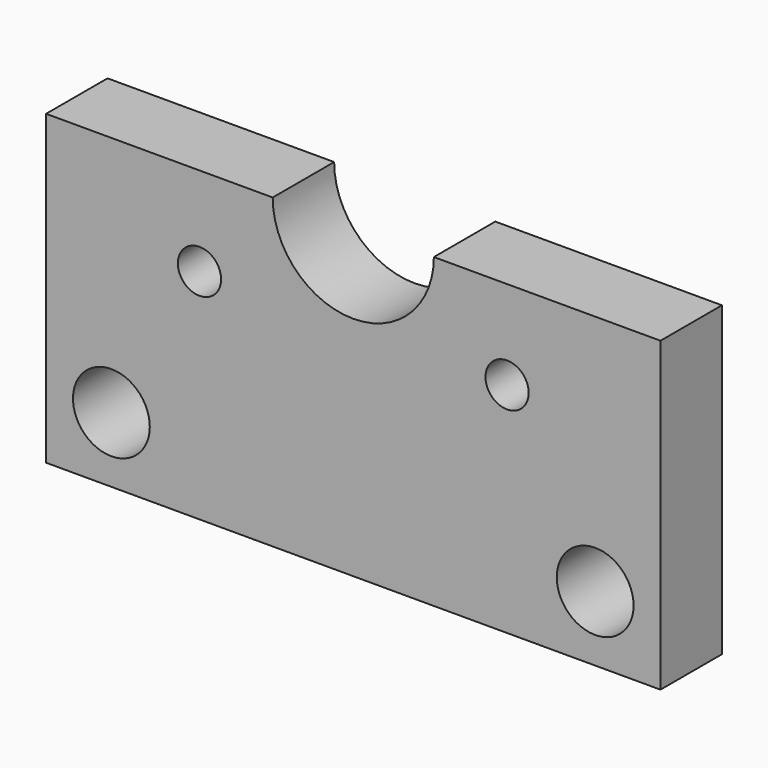
from build123d import *

# Parameters (mm, degrees)
SKETCH070_R  = 3.571875
PAD070_DEPTH = 50
SKETCH069_R  = 3.571875
PAD067_DEPTH = 33.7
SKETCH066_R  = 6.35
PAD066_DEPTH = 12.7


with BuildPart() as body068:
    # Sketch070 → Pad070 (new body)
    with BuildSketch(Plane.XZ):
        Circle(SKETCH070_R)
    extrude(amount=PAD070_DEPTH)


with BuildPart() as body068_1:
    # Body068 placement: moved
    add(body068.part.moved(Location((66.23, 10, 105.316))))


with BuildPart() as body070:
    # Sketch069 → Pad067 (new body)
    with BuildSketch(Plane.XZ):
        Circle(SKETCH069_R)
    extrude(amount=PAD067_DEPTH)


with BuildPart() as body070_1:
    # Body070 placement: moved
    add(body070.part.moved(Location((15.37, 5, 105.316))))


with BuildPart() as cut056:
    # Sketch066 → Pad066 (new body)
    with BuildSketch(Plane.XZ):
        with BuildLine():
            Line((0, 59.2), (0, 110))
            Line((0, 110), (37.475, 110))
            ThreePointArc((37.475, 110), (50.8, 96.675022), (64.125, 110))
            Line((64.125, 110), (101.6, 110))
            Line((101.6, 110), (101.6, 59.2))
            Line((101.6, 59.2), (0, 59.2))
        make_face()
        with Locations((10.8, 70.000022)):
            Circle(SKETCH066_R, mode=Mode.SUBTRACT)
        with Locations((90.8, 70.000022)):
            Circle(SKETCH066_R, mode=Mode.SUBTRACT)
    extrude(amount=PAD066_DEPTH)


with BuildPart() as cut056_1:
    # Body069 placement: moved
    add(cut056.part.moved(Location((-10, 0, 10))))

    # Cut055: cut Body070
    add(body070_1.part, mode=Mode.SUBTRACT)

    # Cut056: cut Body068
    add(body068_1.part, mode=Mode.SUBTRACT)


with BuildPart() as cut056_2:
    # Cut056 placement: moved
    add(cut056_1.part.moved(Location((100, 0, 0))))


solid = cut056_2.part
